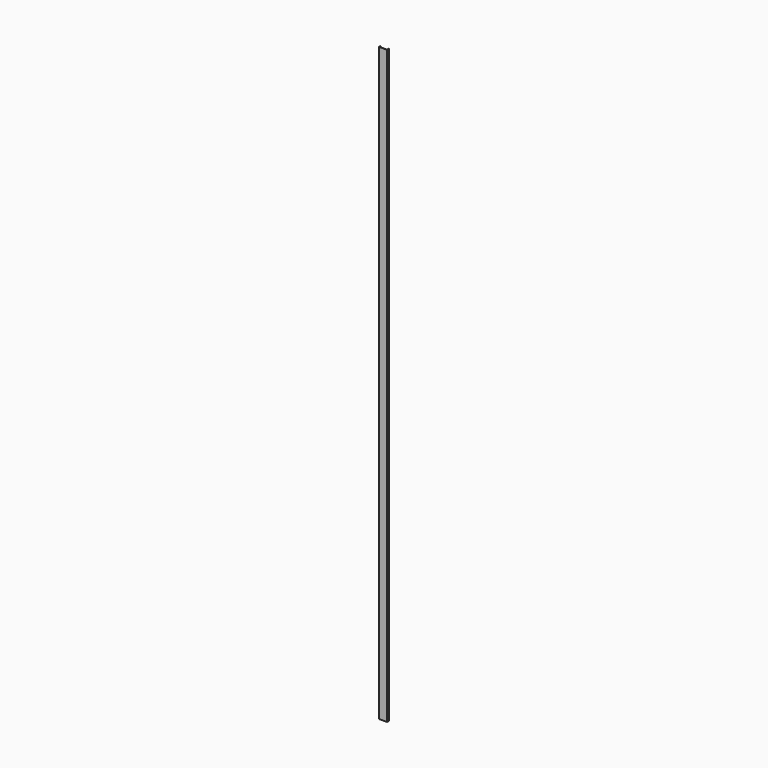
from build123d import *

# Parameters (mm, degrees)
F1_DEPTH = 11836


with BuildPart() as f1:
    # F0 (on Top) → F1 (new body)
    with BuildSketch(Plane.XY):
        with BuildLine():
            Line((-25.298244, 30), (-29.298244, 30))
            Line((-29.298244, 30), (-29.298244, 6))
            ThreePointArc((-29.298244, 6), (-27.540884, 1.757359), (-23.298244, 0))
            Line((-23.298244, 0), (126.701756, 0))
            ThreePointArc((126.701756, 0), (130.944397, 1.757359), (132.701756, 6))
            Line((132.701756, 6), (132.701756, 50))
            Line((132.701756, 50), (128.701756, 50))
            Line((128.701756, 50), (128.701756, 10))
            ThreePointArc((128.701756, 10), (126.944397, 5.757359), (122.701756, 4))
            Line((122.701756, 4), (-19.298244, 4))
            ThreePointArc((-19.298244, 4), (-23.540884, 5.757359), (-25.298244, 10))
            Line((-25.298244, 10), (-25.298244, 30))
        make_face()
    extrude(amount=F1_DEPTH)


solid = f1.part
